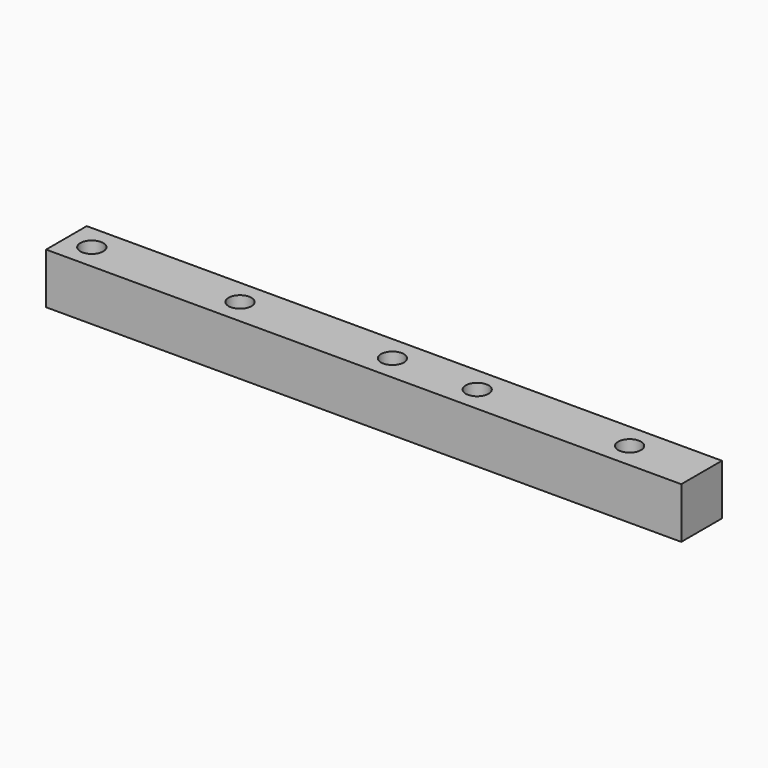
from build123d import *

# Parameters (mm, degrees)
F0_W     = 350
F0_H     = 20
F1_DEPTH = 20
F3_D     = 9
F5_D     = 9
F7_D     = 9
F8_W     = 100
F8_H     = 20
F8_R     = 4.5
F9_DEPTH = 25


with BuildPart() as f1:
    # F0 (on Top) → F1 (new body)
    with BuildSketch(Plane.XY):
        with Locations((63.1421148777, 26.3889993745)):
            Rectangle(F0_W, F0_H)
    extrude(amount=F1_DEPTH)

    # F3 (through all)
    with Locations(Plane.XY.offset(20)):
        with Locations((-43.5278851223, 26.3889993745), (49.8121148777, 26.3889993745)):
            Hole(F3_D / 2)

    # F5 (through all)
    with Locations(Plane.XY.offset(20)):
        with Locations((-101.8578851223, 26.3889993745), (228.1421148777, 26.3889993745)):
            Hole(F5_D / 2)

    # F7 (through all)
    with Locations(Plane.XY.offset(20)):
        with Locations((16.4721148777, 26.3889993745), (109.8121148777, 26.3889993745)):
            Hole(F7_D / 2)

    # F8 (on face) → F9 (cut)
    with BuildSketch(Plane.XY.offset(20)):
        with Locations((188.1421148777, 26.3889993745)):
            Rectangle(F8_W, F8_H)
        with Locations((228.1421148777, 26.3889993745)):
            Circle(F8_R, mode=Mode.SUBTRACT)
    extrude(amount=-F9_DEPTH, mode=Mode.SUBTRACT)


solid = f1.part
